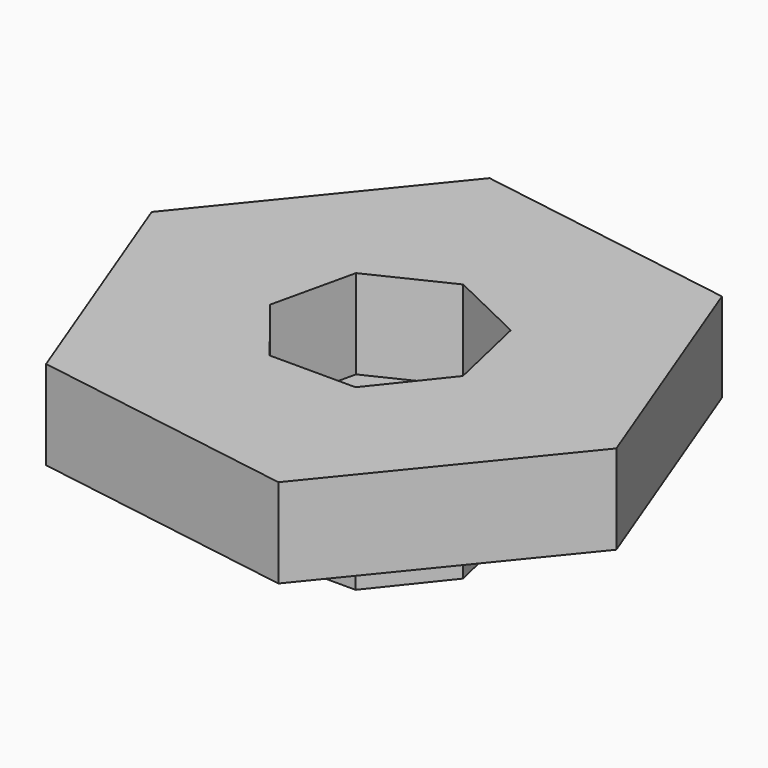
from build123d import *

# Parameters (mm, degrees)
F1_DEPTH = 25
F3_DEPTH = 25


with BuildPart() as f1:
    # F0 (on Top) → F1 (new body)
    with BuildSketch(Plane.XY):
        Polygon((-12.039365, -25), (12.039365, -25), (27.052209, -6.17449), (21.694187, 17.300537), (0, 27.747907), (-21.694187, 17.300537), (-27.052209, -6.17449), align=None)
    extrude(amount=F1_DEPTH)


with BuildPart() as f3:
    # F2 (on face) → F3 (new body)
    with BuildSketch(Plane.XY.offset(25)):
        Polygon((-26.966038, 70.713825), (-74.722988, 12.003638), (-47.75695, -58.710186), (26.966038, -70.713825), (74.722988, -12.003638), (47.75695, 58.710186), align=None)
        Polygon((-12.039365, -25), (-27.052209, -6.17449), (-21.694187, 17.300537), (0, 27.747907), (21.694187, 17.300537), (27.052209, -6.17449), (12.039365, -25), align=None, mode=Mode.SUBTRACT)
    extrude(amount=F3_DEPTH)


solid = Compound([f1.part, f3.part])
